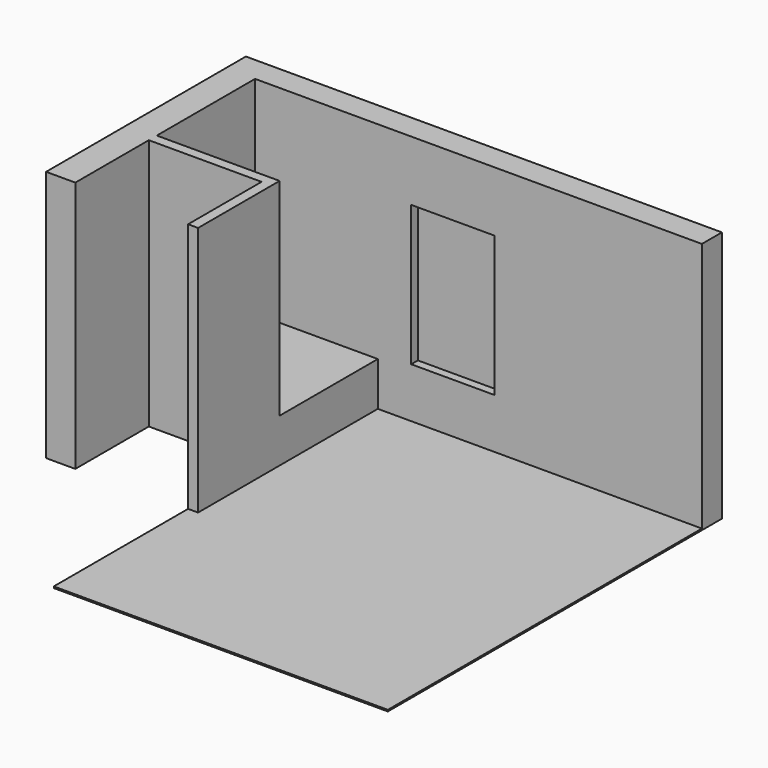
from build123d import *

# Parameters (mm, degrees)
F0_W      = 4000
F0_H      = 5000
F1_DEPTH  = 18
F2_W      = 4000
F2_H      = 300
F3_DEPTH  = 3000
F4_W      = 120
F4_H      = 2690
F5_DEPTH  = 525
F6_W      = 1220
F6_H      = 2475
F7_DEPTH  = 120
F9_DEPTH  = 1350
F10_W     = 2990
F10_H     = 3018
F11_DEPTH = 350
F12_W     = 1000
F12_H     = 1680
F13_DEPTH = 100


with BuildPart() as f1:
    # F0 (on Top) → F1 (new body)
    with BuildSketch(Plane.XY):
        with Locations((2000, -2500)):
            Rectangle(F0_W, F0_H)
    extrude(amount=F1_DEPTH)

    # F2 (on face) → F3 (join)
    with BuildSketch(Plane.XY.offset(18)):
        with Locations((2000, -150)):
            Rectangle(F2_W, F2_H)
    extrude(amount=F3_DEPTH)

    # F4 (on face) → F5 (join)
    with BuildSketch(Plane.XY.offset(18)):
        with Locations((60, -1645)):
            Rectangle(F4_W, F4_H)
    extrude(amount=F5_DEPTH)

    # F6 (on face) → F7 (join, through all)
    with BuildSketch(Plane.YZ.offset(120)):
        with Locations((-2380, 1780.5)):
            Rectangle(F6_W, F6_H)
    extrude(amount=-F7_DEPTH)

    # F8 (on face) → F9 (join)
    with BuildSketch(Plane(origin=(0, 0, 0), x_dir=(0, -1, 0), z_dir=(-1, 0, 0))):
        Polygon((300, 3018), (0, 3018), (0, 0), (1890, 0), (1890, 3018), (1770, 3018), (1770, 543), (300, 543), align=None)
    extrude(amount=F9_DEPTH)

    # F10 (on face) → F11 (join)
    with BuildSketch(Plane(origin=(-1350, 0, 0), x_dir=(0, -1, 0), z_dir=(-1, 0, 0))):
        with Locations((1495, 1509)):
            Rectangle(F10_W, F10_H)
    extrude(amount=F11_DEPTH)

    # F12 (on face) → F13 (cut)
    with BuildSketch(Plane.XZ.offset(300)):
        with Locations((1020, 1458)):
            Rectangle(F12_W, F12_H)
    extrude(amount=-F13_DEPTH, mode=Mode.SUBTRACT)


solid = f1.part
